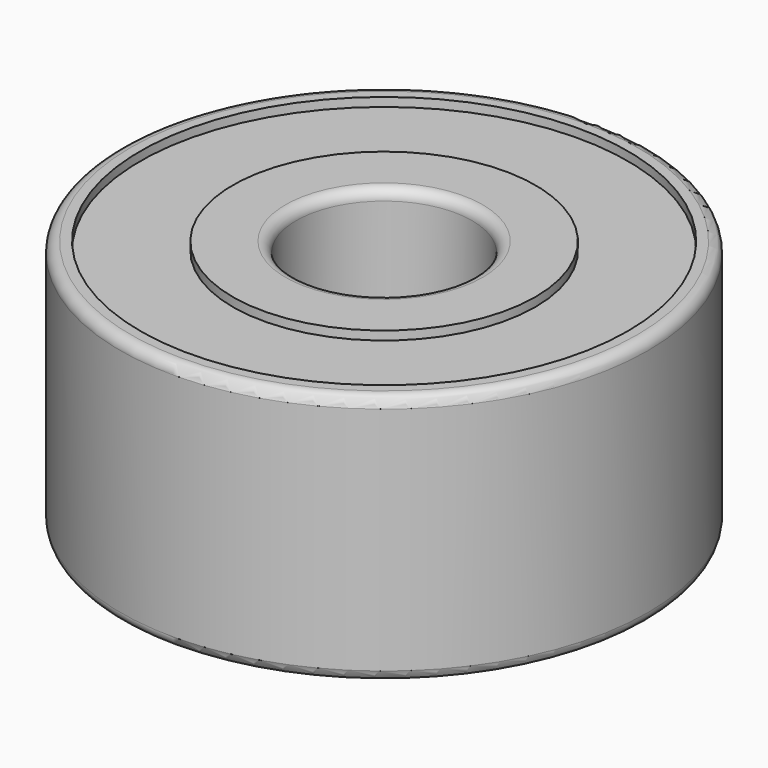
from build123d import *

# Parameters (mm, degrees)
F0_R     = 15
F0_R_2   = 5
F1_DEPTH = 14.3
F2_R     = 0.6
F3_R     = 13.85
F3_R_2   = 8.6
F4_DEPTH = 0.5
F5_R     = 13.85
F5_R_2   = 8.6
F6_DEPTH = 0.5


with BuildPart() as f1:
    # F0 (on Top) → F1 (new body)
    with BuildSketch(Plane.XY):
        Circle(F0_R)
        Circle(F0_R_2, mode=Mode.SUBTRACT)
    extrude(amount=F1_DEPTH)

    # F2
    f2_edges = [f1.edges().sort_by_distance(p)[0] for p in [
        (5, 0, 7.15),
        (-5, 0, 0),
        (-5, 0, 14.3),
        (15, 0, 7.15),
        (-15, 0, 0),
        (-15, 0, 14.3),
    ]]
    fillet(f2_edges, radius=F2_R)

    # F3 (on face) → F4 (cut)
    with BuildSketch(Plane.XY.offset(14.3)):
        Circle(F3_R)
        Circle(F3_R_2, mode=Mode.SUBTRACT)
    extrude(amount=-F4_DEPTH, mode=Mode.SUBTRACT)

    # F5 (on face) → F6 (cut)
    with BuildSketch(Plane(origin=(0, 0, 0), x_dir=(1, 0, 0), z_dir=(0, 0, -1))):
        Circle(F5_R)
        Circle(F5_R_2, mode=Mode.SUBTRACT)
    extrude(amount=-F6_DEPTH, mode=Mode.SUBTRACT)


solid = f1.part
